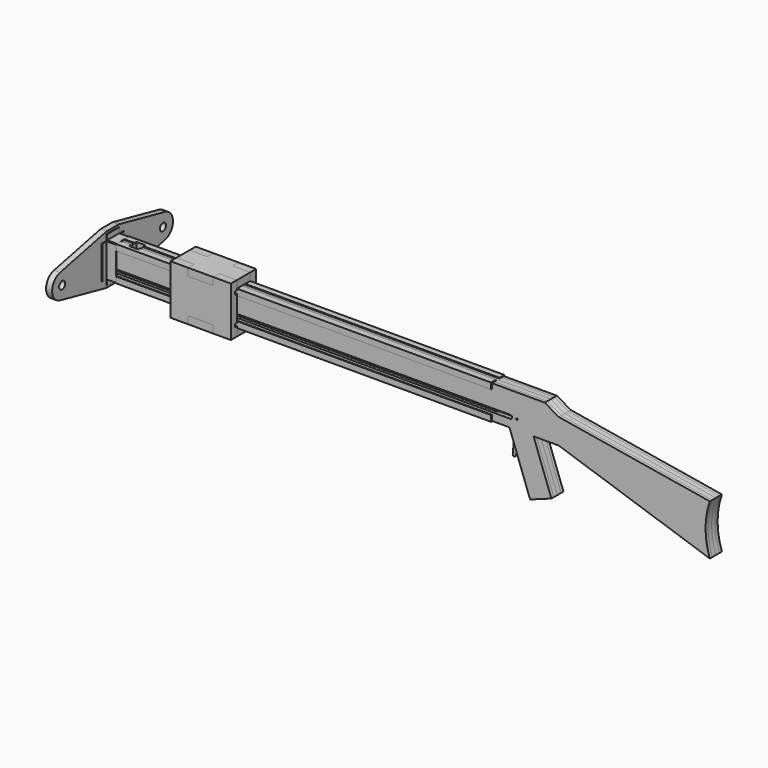
from build123d import *

# Parameters (mm, degrees)
F1_DEPTH  = 6
F3_DEPTH  = 9
F4_DEPTH  = 9
F6_DEPTH  = 6
F8_DEPTH  = 3
F10_DEPTH = 3
F12_DEPTH = 30.001
F13_R     = 1.5
F14_DEPTH = 12
F15_R     = 1.5
F16_DEPTH = 50
F19_DEPTH = 12
F21_DEPTH = 745
F23_W     = 18
F23_H     = 18
F23_R     = 7.5
F24_DEPTH = 12
F26_DEPTH = 30
F28_DEPTH = 66
F29_W     = 18
F29_H     = 18
F30_DEPTH = 1.5
F32_DEPTH = 15
F35_DEPTH = 15
F38_W     = 5
F38_H     = 6
F39_DEPTH = 120


with BuildPart() as f1:
    # F0 (on Front) → F1 (new body)
    with BuildSketch(Plane.XZ):
        with BuildLine():
            ThreePointArc((0, -100), (-8.5786437627, -50), (0, 0))
            Line((0, 0), (-300, 50))
            Line((-300, 50), (-327.7128129211, 66))
            Line((-327.7128129211, 66), (-1197.8879997614, 66))
            Line((-1197.8879997614, 66), (-1197.8879997614, 0))
            Line((-1197.8879997614, 0), (-397.8879997614, 0))
            Line((-397.8879997614, 0), (-356.8455825623, -112.7631144943))
            Line((-356.8455825623, -112.7631144943), (-314.559414627, -97.3722080447))
            Line((-314.559414627, -97.3722080447), (-350, 0))
            Line((-350, 0), (-300, 0))
            Line((-300, 0), (0, -100))
        make_face()
    extrude(amount=F1_DEPTH)


with BuildPart() as f3:
    # F2 (on face) → F3 (new body)
    with BuildSketch(Plane.XZ.offset(6)):
        with BuildLine():
            ThreePointArc((0, -100), (-8.5786437627, -50), (0, 0))
            Line((0, 0), (-300, 50))
            Line((-300, 50), (-327.7128129211, 66))
            Line((-327.7128129211, 66), (-1139.8879997614, 66))
            Line((-1139.8879997614, 66), (-1139.8879997614, 56))
            Line((-1139.8879997614, 56), (-426.1538331466, 56))
            Line((-426.1538331466, 56), (-426.1538331466, 48))
            Line((-426.1538331466, 48), (-326.1538331466, 48))
            Line((-326.1538331466, 48), (-326.1538331466, 28))
            Line((-326.1538331466, 28), (-376.1538331466, 28))
            Line((-376.1538331466, 28), (-349.1760125383, -46.1209529474))
            Line((-349.1760125383, -46.1209529474), (-377.3667911619, -56.3815572472))
            Line((-377.3667911619, -56.3815572472), (-356.8455825623, -112.7631144943))
            Line((-356.8455825623, -112.7631144943), (-314.559414627, -97.3722080447))
            Line((-314.559414627, -97.3722080447), (-350, 0))
            Line((-350, 0), (-300, 0))
            Line((-300, 0), (0, -100))
        make_face()
    extrude(amount=F3_DEPTH)


with BuildPart() as f3b:
    # F2 (on face) → F3, piece 2 (new body)
    with BuildSketch(Plane.XZ.offset(6)):
        Polygon((-432.8879997614, 10), (-1197.8879997614, 10), (-1197.8879997614, 0), (-532.8879997614, 0), (-432.8879997614, 0), align=None)
    extrude(amount=F3_DEPTH)


with BuildPart() as f3c:
    # F2 (on face) → F3, piece 3 (new body)
    with BuildSketch(Plane.XZ.offset(6)):
        Polygon((-1157.8879997614, 38), (-1157.8879997614, 66), (-1197.8879997614, 66), (-1197.8879997614, 28), (-444.1538331466, 28), (-444.1538331466, 38), align=None)
    extrude(amount=F3_DEPTH)


with BuildPart() as f4:
    # F4 (new): a face of the model
    f4_faces = [f3.part.faces().sort_by_distance(p)[0] for p in [
        (-306.6432144271, -15, 0.83189136),
    ]]
    extrude(f4_faces, amount=F4_DEPTH)


with BuildPart() as f4b:
    # F4#2 (new): a face of the model
    f4_2_faces = [f3c.part.faces().sort_by_distance(p)[0] for p in [
        (-867.1887990117, -15, 35.4580293606),
    ]]
    extrude(f4_2_faces, amount=F4_DEPTH)


with BuildPart() as f4c:
    # F4#3 (new): a face of the model
    f4_3_faces = [f3b.part.faces().sort_by_distance(p)[0] for p in [
        (-815.3879997614, -15, 5),
    ]]
    extrude(f4_3_faces, amount=F4_DEPTH)


with BuildPart() as f6:
    # F5 (on face) → F6 (new body)
    with BuildSketch(Plane.XZ.offset(24)):
        with BuildLine():
            ThreePointArc((0, -100), (-8.5786437627, -50), (0, 0))
            Line((0, 0), (-300, 50))
            Line((-300, 50), (-327.7128129211, 66))
            Line((-327.7128129211, 66), (-1197.8879997614, 66))
            Line((-1197.8879997614, 66), (-1197.8879997614, 0))
            Line((-1197.8879997614, 0), (-397.8879997614, 0))
            Line((-397.8879997614, 0), (-356.8455825623, -112.7631144943))
            Line((-356.8455825623, -112.7631144943), (-314.559414627, -97.3722080447))
            Line((-314.559414627, -97.3722080447), (-350, 0))
            Line((-350, 0), (-300, 0))
            Line((-300, 0), (0, -100))
        make_face()
    extrude(amount=F6_DEPTH)


with BuildPart() as f8:
    # F7 (on face) → F8 (new body)
    with BuildSketch(Plane.XZ.offset(6)):
        Polygon((-397.8879997614, 0), (-377.3667911619, -56.3815572472), (-349.1760125383, -46.1209529474), (-376.1538331466, 28), (-326.1538331466, 28), (-326.1538331466, 48), (-426.1538331466, 48), (-426.1538331466, 0), align=None)
    extrude(amount=F8_DEPTH)


with BuildPart() as f10:
    # F9 (on face) → F10 (new body)
    with BuildSketch(Plane.XZ.offset(24)):
        Polygon((-376.1538331466, 28), (-326.1538331466, 28), (-326.1538331466, 48), (-426.1538331466, 48), (-426.1538331466, 0), (-397.8879997614, 0), (-377.3667911619, -56.3815572472), (-349.1760125383, -46.1209529474), align=None)
    extrude(amount=-F10_DEPTH)


with BuildPart() as f12_tool:
    # F11 (on face) → F12 (new body, through all)
    with BuildSketch(Plane(origin=(0, 0, 0), x_dir=(-1, 0, 0), z_dir=(0, 1, 0))):
        with BuildLine():
            Line((396.1538331466, 15.5), (1197.8879997614, 15.5))
            Line((1197.8879997614, 15.5), (1197.8879997614, 22.5))
            Line((1197.8879997614, 22.5), (396.1538331466, 22.5))
            ThreePointArc((396.1538331466, 22.5), (392.6538331466, 19), (396.1538331466, 15.5))
        make_face()
    extrude(amount=-F12_DEPTH)


with BuildPart() as f1_1:
    add(f1.part)

    # F12: cut by f12_tool
    add(f12_tool.part, mode=Mode.SUBTRACT)


with BuildPart() as f6_1:
    add(f6.part)

    # F12: cut by f12_tool
    add(f12_tool.part, mode=Mode.SUBTRACT)


with BuildPart() as f8_1:
    add(f8.part)

    # F12: cut by f12_tool
    add(f12_tool.part, mode=Mode.SUBTRACT)


with BuildPart() as f10_1:
    add(f10.part)

    # F12: cut by f12_tool
    add(f12_tool.part, mode=Mode.SUBTRACT)


with BuildPart() as f14:
    # F13 (on face) → F14 (new body)
    with BuildSketch(Plane.XZ.offset(9)):
        with BuildLine():
            Line((-411.9648013334, 28), (-427.7091494267, 14))
            ThreePointArc((-427.7091494267, 14), (-426.3137675354, 6.8402442491), (-423.7799459855, 0))
            Line((-423.7799459855, 0), (-415.9082839586, 0))
            ThreePointArc((-415.9082839586, 0), (-401.1627372224, -6.4881958477), (-395.9843899968, -21.743114855))
            Line((-395.9843899968, -21.743114855), (-398.5211603587, -50.7385327718))
            ThreePointArc((-398.5211603587, -50.7385327718), (-396.0535207974, -53.954423259), (-392.6347987856, -51.7764571353))
            Line((-392.6347987856, -51.7764571353), (-374.2944574401, 16.6706285941))
            ThreePointArc((-374.2944574401, 16.6706285941), (-381.4949221387, 27.8753222993), (-391.9648013334, 19.6428571429))
            ThreePointArc((-391.9648013334, 19.6428571429), (-393.5451042011, 16.3403747264), (-396.9520299205, 15))
            Line((-396.9520299205, 15), (-398.9648013334, 15))
            ThreePointArc((-398.9648013334, 15), (-401.086121677, 15.8786796564), (-401.9648013334, 18))
            Line((-401.9648013334, 18), (-401.9648013334, 28))
            Line((-401.9648013334, 28), (-411.9648013334, 28))
        make_face()
        with Locations((-382.9877898767, 19)):
            Circle(F13_R, mode=Mode.SUBTRACT)
    extrude(amount=F14_DEPTH)


with BuildPart() as f16_tool:
    # F15 (on face) → F16 (new body, symmetric)
    with BuildSketch(Plane.XZ.offset(21)):
        with Locations((-382.9877898767, 19)):
            Circle(F15_R)
    extrude(amount=F16_DEPTH, both=True)


with BuildPart() as f1_2:
    add(f1_1.part)

    # F16: cut by f16_tool
    add(f16_tool.part, mode=Mode.SUBTRACT)


with BuildPart() as f6_2:
    add(f6_1.part)

    # F16: cut by f16_tool
    add(f16_tool.part, mode=Mode.SUBTRACT)


with BuildPart() as f8_2:
    add(f8_1.part)

    # F16: cut by f16_tool
    add(f16_tool.part, mode=Mode.SUBTRACT)


with BuildPart() as f10_2:
    add(f10_1.part)

    # F16: cut by f16_tool
    add(f16_tool.part, mode=Mode.SUBTRACT)


with BuildPart() as f19:
    # F17 (on face) → F19 (new body)
    with BuildSketch(Plane.XZ.offset(9)):
        Polygon((-444.1538331466, 28), (-346.1538331466, 28), (-346.1538331466, 48), (-426.1538331466, 48), align=None)
    extrude(amount=F19_DEPTH)


with BuildPart() as f21:
    # F20 (on offset) → F21 (new body, through all)
    with BuildSketch(Plane(origin=(-1177.8879997614, 0, 0), x_dir=(0, -1, 0), z_dir=(-1, 0, 0))):
        Polygon((31.4, 55.4), (31.4, 67.4), (19.4, 67.4), (19.4, 66), (30, 66), (30, 55.4), align=None)
    extrude(amount=-F21_DEPTH)


with BuildPart() as f21b:
    # F20 (on offset) → F21, piece 2 (new body, through all)
    with BuildSketch(Plane(origin=(-1177.8879997614, 0, 0), x_dir=(0, -1, 0), z_dir=(-1, 0, 0))):
        Polygon((-1.4, 55.4), (0, 55.4), (0, 66), (10.6, 66), (10.6, 67.4), (-1.4, 67.4), align=None)
    extrude(amount=-F21_DEPTH)


with BuildPart() as f21c:
    # F20 (on offset) → F21, piece 3 (new body, through all)
    with BuildSketch(Plane(origin=(-1177.8879997614, 0, 0), x_dir=(0, -1, 0), z_dir=(-1, 0, 0))):
        Polygon((0, 10.6), (-1.4, 10.6), (-1.4, -1.4), (10.6, -1.4), (10.6, 0), (0, 0), align=None)
    extrude(amount=-F21_DEPTH)


with BuildPart() as f21d:
    # F20 (on offset) → F21, piece 4 (new body, through all)
    with BuildSketch(Plane(origin=(-1177.8879997614, 0, 0), x_dir=(0, -1, 0), z_dir=(-1, 0, 0))):
        Polygon((31.4, -1.4), (31.4, 10.6), (30, 10.6), (30, 0), (19.4, 0), (19.4, -1.4), align=None)
    extrude(amount=-F21_DEPTH)


with BuildPart() as f24:
    # F23 (on offset) → F24 (new body)
    with BuildSketch(Plane(origin=(-1197.8879997614, 0, 0), x_dir=(0, -1, 0), z_dir=(-1, 0, 0))):
        with BuildLine():
            Line((30, 82.4), (0, 82.4))
            Line((0, 82.4), (-115.2911193, 57.4336664574))
            ThreePointArc((-115.2911193, 57.4336664574), (-135, 33), (-115.2911193, 8.5663335426))
            Line((-115.2911193, 8.5663335426), (0, -16.4))
            Line((0, -16.4), (30, -16.4))
            Line((30, -16.4), (145.2911193, 8.5663335426))
            ThreePointArc((145.2911193, 8.5663335426), (165, 33), (145.2911193, 57.4336664574))
            Line((145.2911193, 57.4336664574), (30, 82.4))
        make_face()
        with Locations((15, 19)):
            Rectangle(F23_W, F23_H, mode=Mode.SUBTRACT)
        with Locations((-110, 33)):
            Circle(F23_R, mode=Mode.SUBTRACT)
        with Locations((140, 33)):
            Circle(F23_R, mode=Mode.SUBTRACT)
    extrude(amount=F24_DEPTH)


with BuildPart() as f26:
    # F25 (on face) → F26 (new body, through all)
    with BuildSketch(Plane.XZ.offset(30)):
        Polygon((-1196.4879997614, 78), (-1197.8879997614, 78), (-1197.8879997614, 66), (-1177.8879997614, 66), (-1177.8879997614, 67.4), (-1196.4879997614, 67.4), align=None)
    extrude(amount=-F26_DEPTH)


with BuildPart() as f26b:
    # F25 (on face) → F26, piece 2 (new body, through all)
    with BuildSketch(Plane.XZ.offset(30)):
        Polygon((-1177.8879997614, 0), (-1197.8879997614, 0), (-1197.8879997614, -12), (-1196.4879997614, -12), (-1196.4879997614, -1.4), (-1177.8879997614, -1.4), align=None)
    extrude(amount=-F26_DEPTH)


with BuildPart() as f28:
    # F27 (on face) → F28 (new body, through all)
    with BuildSketch(Plane.XY.offset(66)):
        Polygon((-1196.4879997614, 12), (-1197.8879997614, 12), (-1197.8879997614, 0), (-1177.8879997614, 0), (-1177.8879997614, 1.4), (-1196.4879997614, 1.4), align=None)
    extrude(amount=-F28_DEPTH)


with BuildPart() as f28b:
    # F27 (on face) → F28, piece 2 (new body, through all)
    with BuildSketch(Plane.XY.offset(66)):
        Polygon((-1177.8879997614, -30), (-1197.8879997614, -30), (-1197.8879997614, -42), (-1196.4879997614, -42), (-1196.4879997614, -31.4), (-1177.8879997614, -31.4), align=None)
    extrude(amount=-F28_DEPTH)


with BuildPart() as f30_tool:
    # F29 (on face) → F30 (new body)
    with BuildSketch(Plane.XY.offset(67.4)):
        with Locations((-1148.8879997614, -15)):
            Rectangle(F29_W, F29_H)
    extrude(amount=-F30_DEPTH)


with BuildPart() as f21_1:
    add(f21.part)

    # F30: cut by f30_tool
    add(f30_tool.part, mode=Mode.SUBTRACT)


with BuildPart() as f21b_1:
    add(f21b.part)

    # F30: cut by f30_tool
    add(f30_tool.part, mode=Mode.SUBTRACT)


with BuildPart() as f32:
    # F31 (on face) → F32 (new body)
    with BuildSketch(Plane.XZ.offset(31.4)):
        Polygon((-1057.8879997614, 82.4000000002), (-1057.8879997614, -16.4), (-1022.8879997614, -16.4), (-1022.8879997614, -1.4), (-972.8879997614, -1.4), (-972.8879997614, -16.4), (-937.8879997614, -16.4), (-937.8879997614, 82.4000000002), (-972.8879997614, 82.4000000002), (-972.8879997614, 67.4), (-1022.8879997614, 67.4), (-1022.8879997614, 82.4000000002), align=None)
    extrude(amount=F32_DEPTH)


with BuildPart() as f33_1:
    # F33: instance of F32
    add(f32.part.mirror(Plane(origin=(-306.6432144271, -15, 0.83189136), x_dir=(1, 0, 0), z_dir=(0, -1, 0))))


with BuildPart() as f35:
    # F34 (on face) → F35 (new body)
    with BuildSketch(Plane.XY.offset(67.4)):
        Polygon((-1022.8879997614, 16.4), (-1022.8879997614, 1.4), (-1057.8879997614, 1.4), (-1057.8879997614, -31.4), (-1022.8879997614, -31.4), (-1022.8879997614, -46.4), (-972.8879997614, -46.4), (-972.8879997614, -31.4), (-937.8879997614, -31.4), (-937.8879997614, 1.4), (-972.8879997614, 1.4), (-972.8879997614, 16.4), align=None)
    extrude(amount=F35_DEPTH)


with BuildPart() as f37_1:
    # F37: instance of F35
    add(f35.part.mirror(Plane(origin=(-997.8879997614, -15, 33), x_dir=(1, 0, 0), z_dir=(0, 0, 1))))


with BuildPart() as f39_tool:
    # F38 (on face) → F39 (new body, through all)
    with BuildSketch(Plane.YZ.offset(-937.8879997614)):
        with Locations((-33.9, 4.6)):
            Rectangle(F38_W, F38_H)
        with Locations((3.9, 4.6)):
            Rectangle(F38_W, F38_H)
        with Locations((-33.9, 61.4)):
            Rectangle(F38_W, F38_H)
        with Locations((3.9, 61.4)):
            Rectangle(F38_W, F38_H)
    extrude(amount=-F39_DEPTH)


with BuildPart() as f32_1:
    add(f32.part)

    # F39: cut by f39_tool
    add(f39_tool.part, mode=Mode.SUBTRACT)


with BuildPart() as f33_1_1:
    add(f33_1.part)

    # F39: cut by f39_tool
    add(f39_tool.part, mode=Mode.SUBTRACT)


solid = Compound([f3.part, f3b.part, f3c.part, f4.part, f4b.part, f4c.part, f14.part, f1_2.part, f6_2.part, f8_2.part, f10_2.part, f19.part, f21c.part, f21d.part, f24.part, f26.part, f26b.part, f28.part, f28b.part, f21_1.part, f21b_1.part, f35.part, f37_1.part, f32_1.part, f33_1_1.part])
